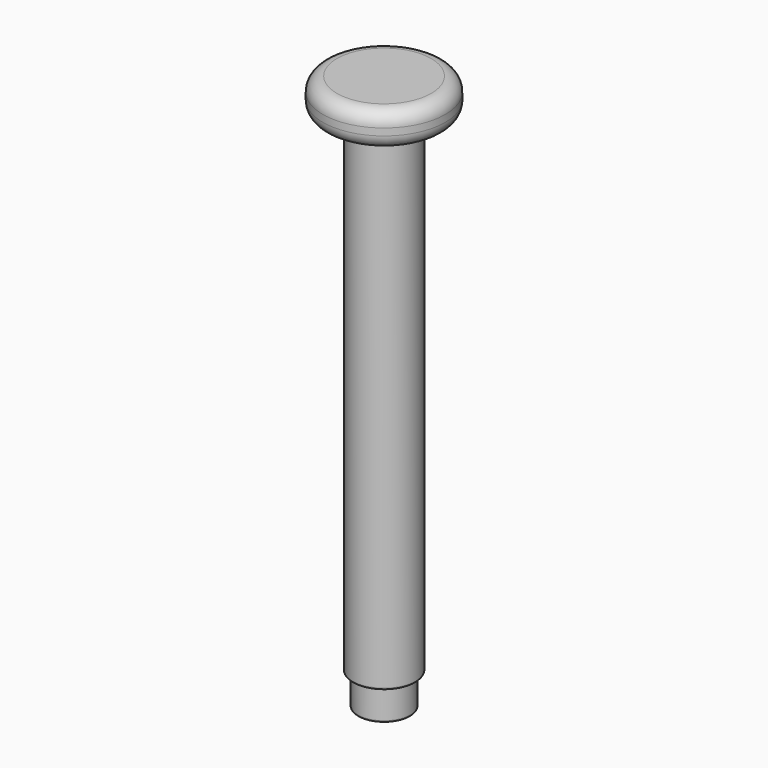
from build123d import *

# Parameters (mm, degrees)
F0_R     = 9.525
F1_DEPTH = 11.43
F2_R     = 11.43
F3_DEPTH = 177.8
F4_R     = 22.225
F5_DEPTH = 12.7
F6_R     = 5.08
F7_R     = 0.635


with BuildPart() as f1:
    # F0 (on Top) → F1 (new body)
    with BuildSketch(Plane.XY):
        Circle(F0_R)
    extrude(amount=F1_DEPTH)

    # F2 (on face) → F3 (join)
    with BuildSketch(Plane.XY.offset(11.43)):
        Circle(F2_R)
    extrude(amount=F3_DEPTH)

    # F4 (on face) → F5 (join)
    with BuildSketch(Plane.XY.offset(189.23)):
        Circle(F4_R)
    extrude(amount=F5_DEPTH)

    # F6
    f6_edges = [f1.edges().sort_by_distance(p)[0] for p in [
        (-22.225, 0, 201.93),
        (-22.225, 0, 189.23),
    ]]
    fillet(f6_edges, radius=F6_R)

    # F7
    f7_edges = [f1.edges().sort_by_distance(p)[0] for p in [
        (-11.43, 0, 11.43),
        (-9.525, 0, 0),
    ]]
    fillet(f7_edges, radius=F7_R)


solid = f1.part
